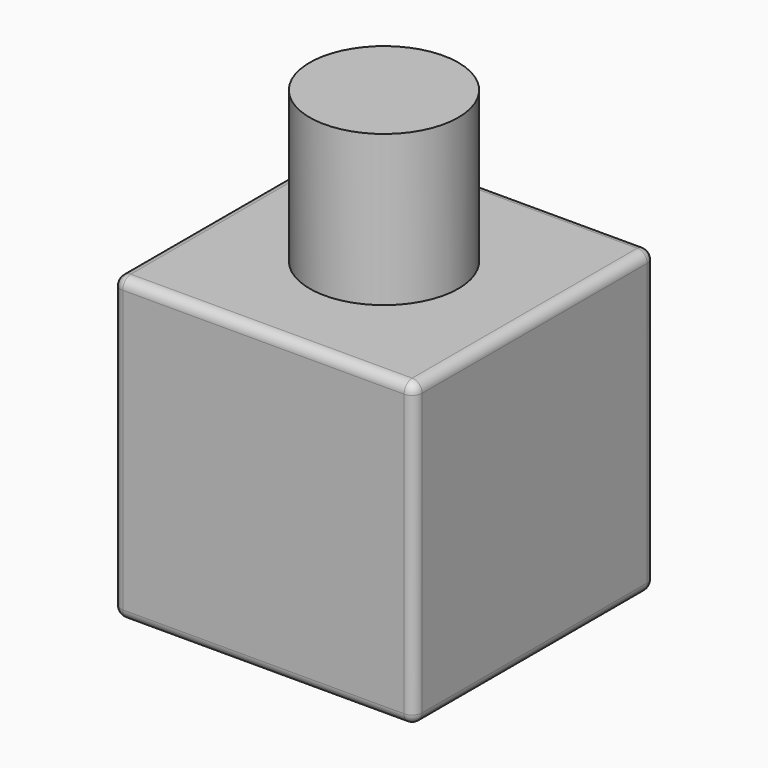
from build123d import *

# Parameters (mm, degrees)
F0_R     = 7.4
F1_DEPTH = 45
F0_W     = 30
F0_H     = 30
F2_DEPTH = 30
F3_R     = 1


with BuildPart() as f1:
    # F0 (on Top) → F1 (new body)
    with BuildSketch(Plane.XY):
        with Locations((1.971214, -19.989052)):
            Circle(F0_R)
    extrude(amount=F1_DEPTH)

    # F0 (on Top) → F2 (join)
    with BuildSketch(Plane.XY):
        with Locations((1.971214, -19.989052)):
            Rectangle(F0_W, F0_H)
        with Locations((1.971214, -19.989052)):
            Circle(F0_R, mode=Mode.SUBTRACT)
    extrude(amount=F2_DEPTH)

    # F3
    f3_edges = [f1.edges().sort_by_distance(p)[0] for p in [
        (16.971214, -4.989052, 15),
        (-13.028786, -4.989052, 15),
        (1.971214, -4.989052, 0),
        (1.971214, -4.989052, 30),
        (-13.028786, -34.989052, 15),
        (-13.028786, -19.989052, 0),
        (-13.028786, -19.989052, 30),
        (16.971214, -34.989052, 15),
        (1.971214, -34.989052, 0),
        (1.971214, -34.989052, 30),
        (16.971214, -19.989052, 0),
        (16.971214, -19.989052, 30),
    ]]
    fillet(f3_edges, radius=F3_R)


solid = f1.part
